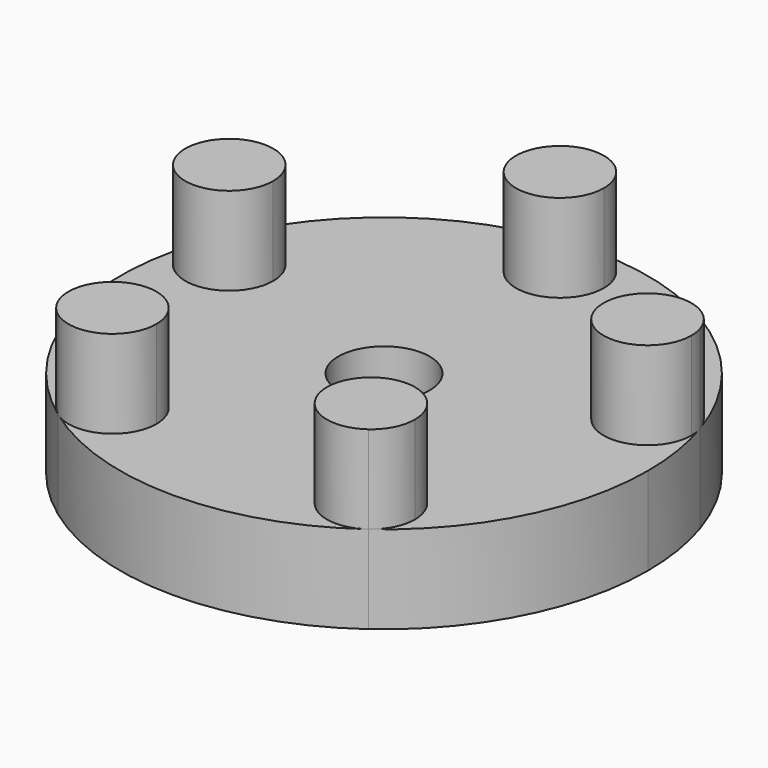
from build123d import *

# Parameters (mm, degrees)
F0_R     = 3.302
F1_DEPTH = 6.35
F2_DEPTH = 12.7
F3_DEPTH = 12.7


with BuildPart() as f1:
    # F0 (on Top) → F1 (new body)
    with BuildSketch(Plane.XY):
        with BuildLine():
            ThreePointArc((11.19730897, -15.4117738054), (16.9736742616, -8.6485190675), (19.05, 0))
            ThreePointArc((19.05, 0), (18.8154628823, 2.980076597), (18.1176266116, 5.8867738161))
            ThreePointArc((18.1176266116, 5.8867738161), (11.197309025, 15.4117737655), (0, 19.05))
            ThreePointArc((0, 19.05), (-11.1973090383, 15.4117737558), (-18.1176266218, 5.8867737848))
            ThreePointArc((-18.1176266218, 5.8867737848), (-18.1176266522, -5.8867736914), (-11.1973091081, -15.4117737051))
            ThreePointArc((-11.1973091081, -15.4117737051), (-8.53e-08, -19.05), (11.19730897, -15.4117738054))
        make_face()
        with BuildLine():
            ThreePointArc((-6.1560908801, -12.8431447857), (-7.8896710721, -15.6720905146), (-11.1973091081, -15.4117737051))
            ThreePointArc((-11.1973091081, -15.4117737051), (-10.7725106882, -10.0141990568), (-6.1560908801, -12.8431447857))
        make_face(mode=Mode.SUBTRACT)
        with BuildLine():
            ThreePointArc((12.5060908801, -12.8431447857), (12.1600365703, -14.2845646698), (11.19730897, -15.4117738054))
            ThreePointArc((11.19730897, -15.4117738054), (6.50214519, -11.4017249016), (12.5060908801, -12.8431447857))
        make_face(mode=Mode.SUBTRACT)
        with BuildLine():
            ThreePointArc((-11.9230221962, 4.9056447857), (-15.5947016445, 1.7697343078), (-18.1176266218, 5.8867737848))
            ThreePointArc((-18.1176266218, 5.8867737848), (-14.6013427479, 8.0415552636), (-11.9230221962, 4.9056447857))
        make_face(mode=Mode.SUBTRACT)
        Circle(F0_R, mode=Mode.SUBTRACT)
        with BuildLine():
            ThreePointArc((18.2730221962, 4.9056447857), (11.9621117208, 4.4089653212), (18.1176266116, 5.8867738161))
            ThreePointArc((18.1176266116, 5.8867738161), (18.2339326716, 5.4023242502), (18.2730221962, 4.9056447857))
        make_face(mode=Mode.SUBTRACT)
        with BuildLine():
            ThreePointArc((3.175, 15.875), (-2.2450640303, 13.6299359697), (0, 19.05))
            ThreePointArc((0, 19.05), (2.2450640303, 18.1200640303), (3.175, 15.875))
        make_face(mode=Mode.SUBTRACT)
        with BuildLine():
            ThreePointArc((18.2730221962, 4.9056447857), (18.2339326716, 5.4023242502), (18.1176266116, 5.8867738161))
            ThreePointArc((18.1176266116, 5.8867738161), (11.9621117208, 4.4089653212), (18.2730221962, 4.9056447857))
        make_face()
        with BuildLine():
            ThreePointArc((3.175, 15.875), (2.2450640303, 18.1200640303), (0, 19.05))
            ThreePointArc((0, 19.05), (-2.2450640303, 13.6299359697), (3.175, 15.875))
        make_face()
        with BuildLine():
            ThreePointArc((-11.9230221962, 4.9056447857), (-14.6013427479, 8.0415552636), (-18.1176266218, 5.8867737848))
            ThreePointArc((-18.1176266218, 5.8867737848), (-15.5947016445, 1.7697343078), (-11.9230221962, 4.9056447857))
        make_face()
        with BuildLine():
            ThreePointArc((-6.1560908801, -12.8431447857), (-10.7725106882, -10.0141990568), (-11.1973091081, -15.4117737051))
            ThreePointArc((-11.1973091081, -15.4117737051), (-7.8896710721, -15.6720905146), (-6.1560908801, -12.8431447857))
        make_face()
        with BuildLine():
            ThreePointArc((12.5060908801, -12.8431447857), (6.50214519, -11.4017249016), (11.19730897, -15.4117738054))
            ThreePointArc((11.19730897, -15.4117738054), (12.1600365703, -14.2845646698), (12.5060908801, -12.8431447857))
        make_face()
    extrude(amount=F1_DEPTH)


with BuildPart() as f2:
    # F0 (on Top) → F2 (new body)
    with BuildSketch(Plane.XY):
        with BuildLine():
            ThreePointArc((3.175, 15.875), (2.2450640303, 18.1200640303), (0, 19.05))
            ThreePointArc((0, 19.05), (-2.2450640303, 13.6299359697), (3.175, 15.875))
        make_face()
    extrude(amount=F2_DEPTH)


with BuildPart() as f2b:
    # F0 (on Top) → F2, piece 2 (new body)
    with BuildSketch(Plane.XY):
        with BuildLine():
            ThreePointArc((-6.1560908801, -12.8431447857), (-10.7725106882, -10.0141990568), (-11.1973091081, -15.4117737051))
            ThreePointArc((-11.1973091081, -15.4117737051), (-7.8896710721, -15.6720905146), (-6.1560908801, -12.8431447857))
        make_face()
    extrude(amount=F2_DEPTH)


with BuildPart() as f2c:
    # F0 (on Top) → F2, piece 3 (new body)
    with BuildSketch(Plane.XY):
        with BuildLine():
            ThreePointArc((12.5060908801, -12.8431447857), (6.50214519, -11.4017249016), (11.19730897, -15.4117738054))
            ThreePointArc((11.19730897, -15.4117738054), (12.1600365703, -14.2845646698), (12.5060908801, -12.8431447857))
        make_face()
    extrude(amount=F2_DEPTH)


with BuildPart() as f2d:
    # F0 (on Top) → F2, piece 4 (new body)
    with BuildSketch(Plane.XY):
        with BuildLine():
            ThreePointArc((18.2730221962, 4.9056447857), (18.2339326716, 5.4023242502), (18.1176266116, 5.8867738161))
            ThreePointArc((18.1176266116, 5.8867738161), (11.9621117208, 4.4089653212), (18.2730221962, 4.9056447857))
        make_face()
    extrude(amount=F2_DEPTH)


with BuildPart() as f3:
    # F0 (on Top) → F3 (new body)
    with BuildSketch(Plane.XY):
        with BuildLine():
            ThreePointArc((-11.9230221962, 4.9056447857), (-14.6013427479, 8.0415552636), (-18.1176266218, 5.8867737848))
            ThreePointArc((-18.1176266218, 5.8867737848), (-15.5947016445, 1.7697343078), (-11.9230221962, 4.9056447857))
        make_face()
    extrude(amount=F3_DEPTH)


solid = Compound([f1.part, f2.part, f2b.part, f2c.part, f2d.part, f3.part])
